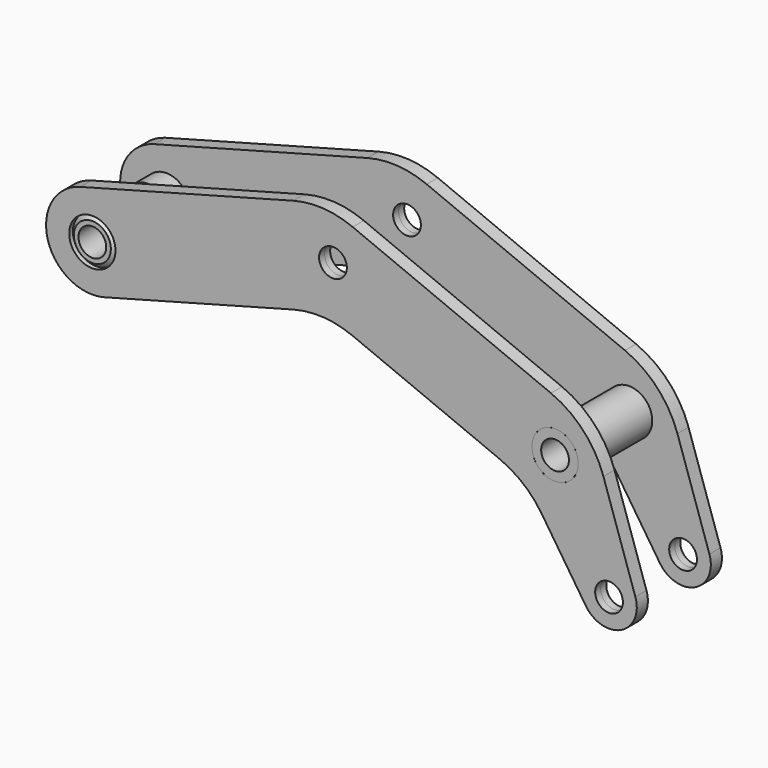
from build123d import *

# Parameters (mm, degrees)
F0_R          = 15
F0_R_2        = 25
F1_DEPTH      = 7.5
F1_DEPTH_BACK = 7.5
F2_R          = 100
F3_R          = 100
F5_R          = 25
F5_R_2        = 15
F6_DEPTH      = 115
F7_R          = 25
F7_R_2        = 15
F8_DEPTH      = 40
F10_SIZE      = 5


with BuildPart() as f1:
    # F0 (on Front) → F1 (new body, two sides)
    with BuildSketch(Plane.XZ) as f1_sk:
        with BuildLine():
            Line((250, 118.7511071283), (-12.9409522551, 48.2962913145))
            ThreePointArc((-12.9409522551, 48.2962913145), (-48.2962913145, -12.9409522551), (12.9409522551, -48.2962913145))
            Line((12.9409522551, -48.2962913145), (250, 15.2234890873))
            Line((250, 15.2234890873), (468.669728101, -75.0192459692))
            Line((468.669728101, -75.0192459692), (533.3056712347, -172.7320320052))
            ThreePointArc((533.3056712347, -172.7320320052), (571.4705096403, -183.1482675765), (586.7791439061, -146.6695262205))
            Line((586.7791439061, -146.6695262205), (537.7491721764, 0))
            Line((537.7491721764, 0), (250, 118.7511071283))
        make_face()
        with Locations((558.3268105804, -156.1808209969)):
            Circle(F0_R, mode=Mode.SUBTRACT)
        with Locations((500, -40)):
            Circle(F0_R_2, mode=Mode.SUBTRACT)
        Circle(F0_R_2, mode=Mode.SUBTRACT)
        with Locations((260, 65)):
            Circle(F0_R, mode=Mode.SUBTRACT)
    extrude(amount=F1_DEPTH)
    extrude(f1_sk.sketch, amount=-F1_DEPTH_BACK)

    # F2
    f2_edges = [f1.edges().sort_by_distance(p)[0] for p in [
        (250, 0, 118.751107),
        (537.749172, 0, 0),
    ]]
    fillet(f2_edges, radius=F2_R)

    # F3
    f3_edges = [f1.edges().sort_by_distance(p)[0] for p in [
        (250, 0, 15.223489),
        (468.669728, 0, -75.019246),
    ]]
    fillet(f3_edges, radius=F3_R)


with BuildPart() as f4_1:
    # F4: copy of F1
    add(f1.part.moved(Location((0, -100, 0))))


with BuildPart() as f6:
    # F5 (on face) → F6 (new body, through all)
    with BuildSketch(Plane(origin=(0, 7.5, 0), x_dir=(-1, 0, 0), z_dir=(0, 1, 0))):
        with Locations((-500, -40)):
            Circle(F5_R)
        with Locations((-500, -40)):
            Circle(F5_R_2, mode=Mode.SUBTRACT)
    extrude(amount=-F6_DEPTH)


with BuildPart() as f8:
    # F7 (on face) → F8 (new body)
    with BuildSketch(Plane.XZ.offset(107.5)):
        Circle(F7_R)
        Circle(F7_R_2, mode=Mode.SUBTRACT)
    extrude(amount=-F8_DEPTH)

    # F10
    f10_edges = [f8.edges().sort_by_distance(p)[0] for p in [
        (-25, -107.5, 0),
    ]]
    chamfer(f10_edges, length=F10_SIZE)


with BuildPart() as f11_1:
    # F11: instance of F8
    add(f8.part.mirror(Plane(origin=(282.7580420421, -50, 4.314738993), x_dir=(1, 0, 0), z_dir=(0, -1, 0))))


solid = Compound([f1.part, f4_1.part, f6.part, f8.part, f11_1.part])
